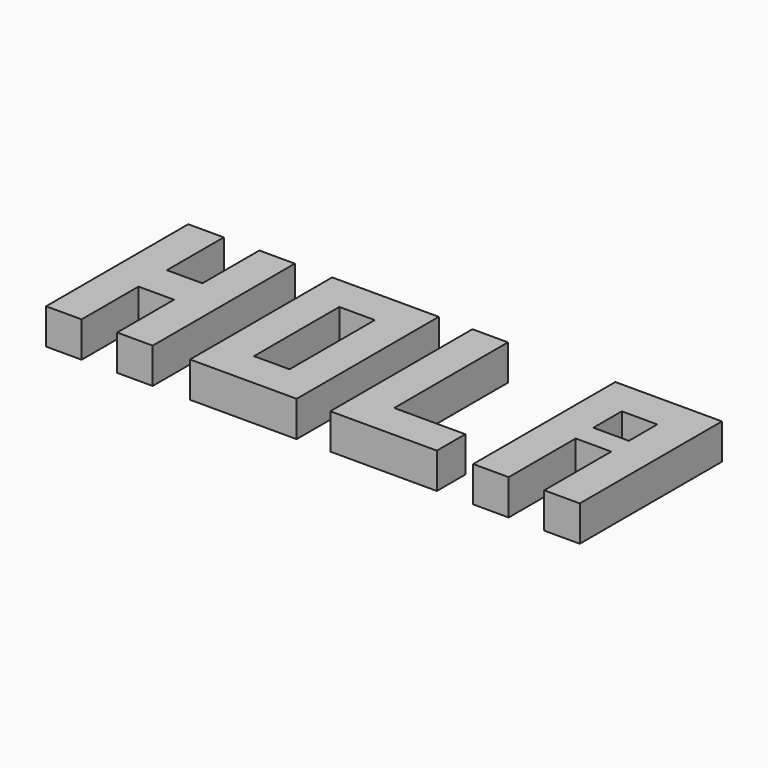
from build123d import *

# Parameters (mm, degrees)
PAD_DEPTH     = 10
SKETCH001_W   = 30
SKETCH001_H   = 50
SKETCH001_W_2 = 10
SKETCH001_H_2 = 30
PAD001_DEPTH  = 10
PAD002_DEPTH  = 10
SKETCH003_W   = 10
SKETCH003_H   = 10
PAD003_DEPTH  = 10


with BuildPart() as h:
    # Sketch → Pad (new body)
    with BuildSketch(Plane.XY):
        Polygon((-15, 25), (-5, 25), (-4.999917, 5.000041), (5.000083, 5), (5, 25), (15, 25), (15, -25), (5, -25), (5.000083, -5), (-4.999917, -4.999959), (-5, -25.000041), (-15, -25), align=None)
    extrude(amount=PAD_DEPTH)


with BuildPart() as o:
    # Sketch001 → Pad001 (new body)
    with BuildSketch(Plane(origin=(40, 0, 0), x_dir=(1, 0, 0), z_dir=(0, 0, 1))):
        with Locations((0.505424, 0)):
            Rectangle(SKETCH001_W, SKETCH001_H)
        with Locations((0.505424, 0)):
            Rectangle(SKETCH001_W_2, SKETCH001_H_2, mode=Mode.SUBTRACT)
    extrude(amount=PAD001_DEPTH)


with BuildPart() as l:
    # Sketch002 → Pad002 (new body)
    with BuildSketch(Plane(origin=(85, 0, 0), x_dir=(1, 0, 0), z_dir=(0, 0, 1))):
        Polygon((-20.027875, -25), (9.972125, -25), (9.972125, -15), (-10.027875, -15), (-10.027875, 25), (-20.027875, 25), align=None)
    extrude(amount=PAD002_DEPTH)


with BuildPart() as a:
    # Sketch003 → Pad003 (new body)
    with BuildSketch(Plane(origin=(125, 0, 0), x_dir=(1, 0, 0), z_dir=(0, 0, 1))):
        Polygon((-19.816504, -25), (-19.816504, 25), (10.183496, 25), (10.183496, -25), (0.183496, -25), (0.183496, -1.425298), (-9.816504, -1.425298), (-9.816504, -25), align=None)
        with Locations((-5, 10)):
            Rectangle(SKETCH003_W, SKETCH003_H, mode=Mode.SUBTRACT)
    extrude(amount=PAD003_DEPTH)


solid = Compound([h.part, o.part, l.part, a.part])
